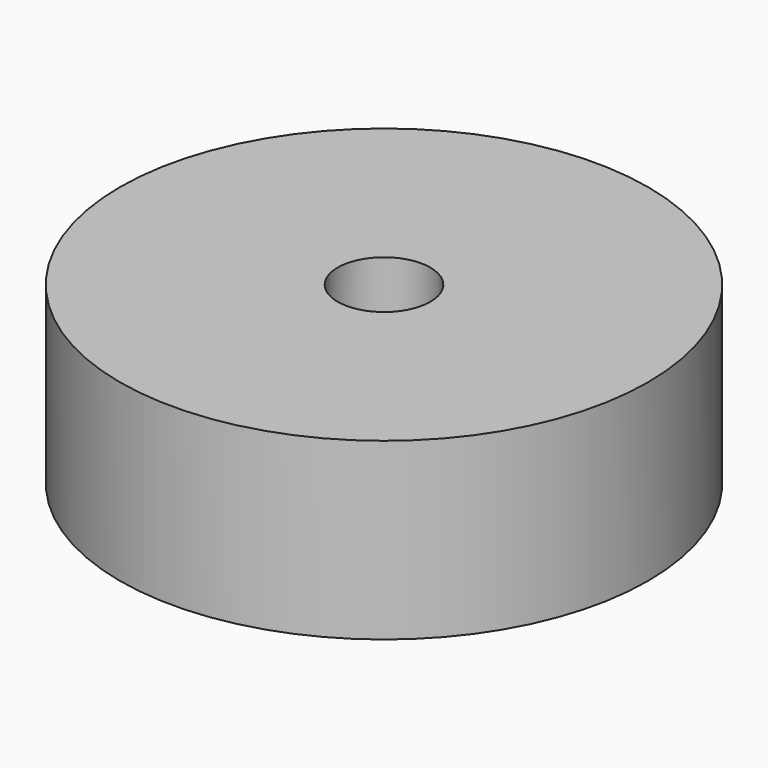
from build123d import *

# Parameters (mm, degrees)
CYLINDER704_R     = 2.65
CYLINDER704_DEPTH = 30
CYLINDER703_R     = 15.1
CYLINDER703_DEPTH = 10


with BuildPart() as obj1:
    # Cylinder704 → Cylinder704 (new body)
    with BuildSketch(Plane(origin=(0, 83, 232), x_dir=(1, 0, 0), z_dir=(0, 0, 1))):
        Circle(CYLINDER704_R)
    extrude(amount=CYLINDER704_DEPTH)


with BuildPart() as cut284:
    # Cylinder703 → Cylinder703 (new body)
    with BuildSketch(Plane(origin=(0, 83, 242), x_dir=(1, 0, 0), z_dir=(0, 0, 1))):
        Circle(CYLINDER703_R)
    extrude(amount=CYLINDER703_DEPTH)

    # Cut284: cut obj1
    add(obj1.part, mode=Mode.SUBTRACT)


solid = cut284.part
